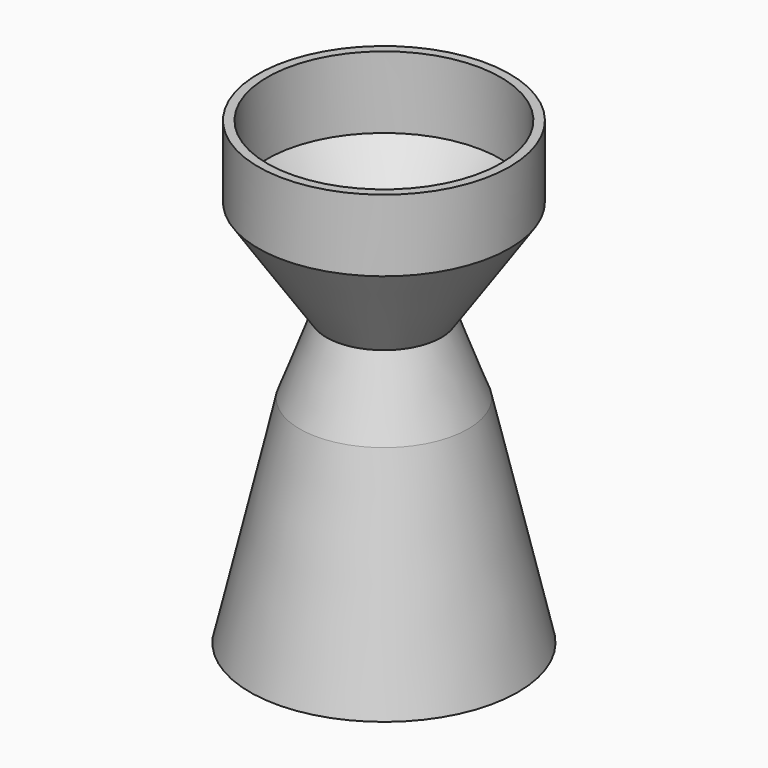
from build123d import *

# Parameters (mm, degrees)
F1_R  = 22.225
F4_R  = 22.225
F0_R  = 20.6375
F3_R  = 20.6375
F9_R  = 10.16
F8_R  = 6.35
F16_R = 14.892743
F15_R = 12.360635
F19_R = 23.686473
F13_R = 20.620664


with BuildPart() as f5:
    # F1 (on Top) → F5 section 0
    with BuildSketch(Plane.XY):
        Circle(F1_R)
    # F4 (on offset) → F5 section 1
    with BuildSketch(Plane.XY.offset(12.7)):
        Circle(F4_R)
    loft()

    # F0 (on Top) → F6 section 0
    with BuildSketch(Plane.XY):
        Circle(F0_R)
    # F3 (on offset) → F6 section 1
    with BuildSketch(Plane.XY.offset(12.7)):
        Circle(F3_R)
    loft(mode=Mode.SUBTRACT)

    # F1 (on Top) → F10 section 0
    with BuildSketch(Plane.XY):
        Circle(F1_R)
    # F9 (on offset) → F10 section 1
    with BuildSketch(Plane.XY.offset(-17.78)):
        Circle(F9_R)
    loft()

    # F8 (on offset) → F11 section 0
    with BuildSketch(Plane.XY.offset(-17.78)):
        Circle(F8_R)
    # F0 (on Top) → F11 section 1
    with BuildSketch(Plane.XY):
        Circle(F0_R)
    loft(mode=Mode.SUBTRACT)

    # F16 (on offset) → F17 section 0
    with BuildSketch(Plane.XY.offset(-30.48)):
        Circle(F16_R)
    # F9 (on offset) → F17 section 1
    with BuildSketch(Plane.XY.offset(-17.78)):
        Circle(F9_R)
    loft()

    # F15 (on offset) → F18 section 0
    with BuildSketch(Plane.XY.offset(-30.48)):
        Circle(F15_R)
    # F8 (on offset) → F18 section 1
    with BuildSketch(Plane.XY.offset(-17.78)):
        Circle(F8_R)
    loft(mode=Mode.SUBTRACT)

    # F19 (on offset) → F20 section 0
    with BuildSketch(Plane.XY.offset(-68.58)):
        Circle(F19_R)
    # F16 (on offset) → F20 section 1
    with BuildSketch(Plane.XY.offset(-30.48)):
        Circle(F16_R)
    loft()

    # F15 (on offset) → F21 section 0
    with BuildSketch(Plane.XY.offset(-30.48)):
        Circle(F15_R)
    # F13 (on offset) → F21 section 1
    with BuildSketch(Plane.XY.offset(-68.58)):
        Circle(F13_R)
    loft(mode=Mode.SUBTRACT)


solid = f5.part
